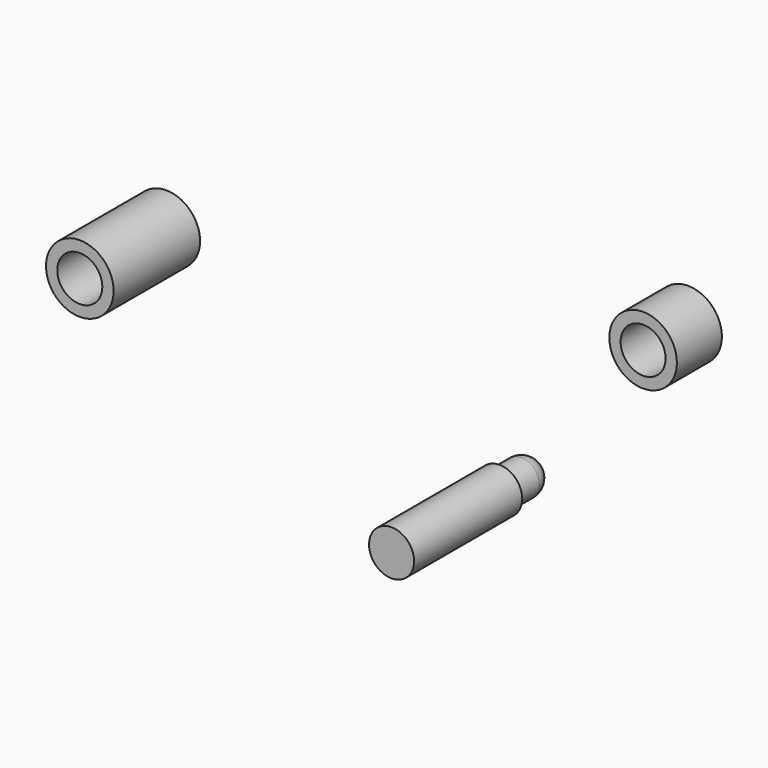
from build123d import *

# Parameters (mm, degrees)
F0_R     = 3.175
F0_R_2   = 2.54
F1_DEPTH = 19.05
F2_DEPTH = 6.35
F3_R     = 2.54
F4_R     = 4.7625
F4_R_2   = 3.175
F5_DEPTH = 12.7
F4_R_3   = 2.54
F6_DEPTH = 2.54
F7_R     = 4.7625
F7_R_2   = 3.175
F8_DEPTH = 6.35
F7_R_3   = 0.79375
F9_DEPTH = 1.5875


with BuildPart() as f1:
    # F0 (on Front) → F1 (new body)
    with BuildSketch(Plane.XZ):
        Circle(F0_R)
        Circle(F0_R_2, mode=Mode.SUBTRACT)
        Circle(F0_R_2)
    extrude(amount=F1_DEPTH)

    # F0 (on Front) → F2 (join)
    with BuildSketch(Plane.XZ):
        Circle(F0_R_2)
    extrude(amount=-F2_DEPTH)

    # F3
    f3_edges = [f1.edges().sort_by_distance(p)[0] for p in [
        (-2.54, 6.35, 0),
    ]]
    fillet(f3_edges, radius=F3_R)


with BuildPart() as f5:
    # F4 (on Front) → F5 (new body)
    with BuildSketch(Plane.XZ):
        with Locations((-49.0270517766, 15.5131686479)):
            Circle(F4_R)
        with Locations((-49.0270517766, 15.5131686479)):
            Circle(F4_R_2, mode=Mode.SUBTRACT)
    extrude(amount=F5_DEPTH)

    # F4 (on Front) → F6 (join)
    with BuildSketch(Plane.XZ):
        with Locations((-49.0270517766, 15.5131686479)):
            Circle(F4_R)
        with Locations((-49.0270517766, 15.5131686479)):
            Circle(F4_R_2, mode=Mode.SUBTRACT)
        with Locations((-49.0270517766, 15.5131686479)):
            Circle(F4_R_2)
        with Locations((-49.0270517766, 15.5131686479)):
            Circle(F4_R_3, mode=Mode.SUBTRACT)
    extrude(amount=-F6_DEPTH)


with BuildPart() as f8:
    # F7 (on Front) → F8 (new body)
    with BuildSketch(Plane.XZ):
        with Locations((25.3011770546, 28.2154474407)):
            Circle(F7_R)
        with Locations((25.3011770546, 28.2154474407)):
            Circle(F7_R_2, mode=Mode.SUBTRACT)
    extrude(amount=F8_DEPTH)

    # F7 (on Front) → F9 (join)
    with BuildSketch(Plane.XZ):
        with Locations((25.3011770546, 28.2154474407)):
            Circle(F7_R)
        with Locations((25.3011770546, 28.2154474407)):
            Circle(F7_R_2, mode=Mode.SUBTRACT)
        with Locations((25.3011770546, 28.2154474407)):
            Circle(F7_R_2)
        with Locations((25.3011770546, 28.2154474407)):
            Circle(F7_R_3, mode=Mode.SUBTRACT)
    extrude(amount=-F9_DEPTH)


solid = Compound([f1.part, f5.part, f8.part])
